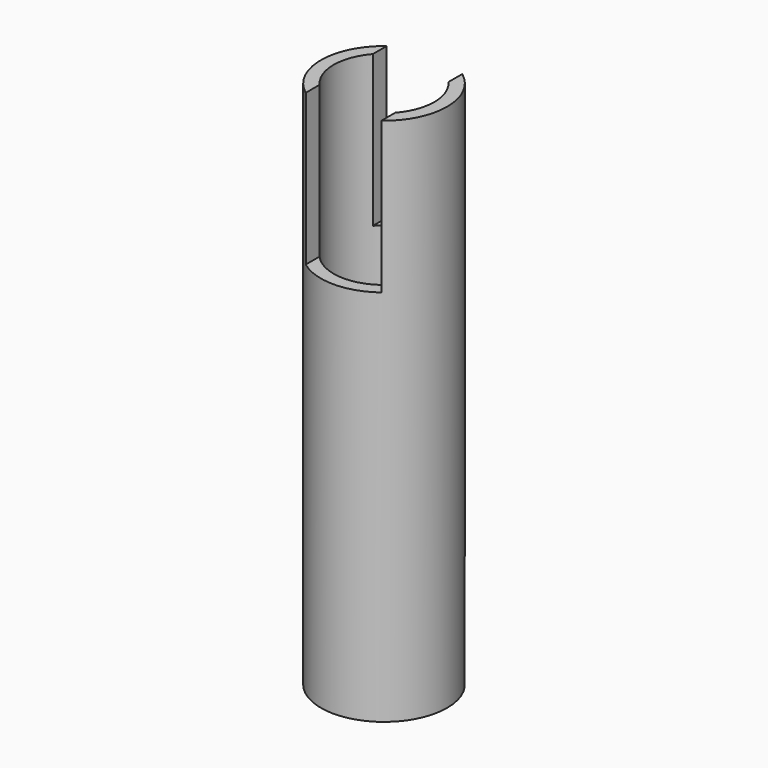
from build123d import *

# Parameters (mm, degrees)
SKETCH_R          = 16.7005
SKETCH_R_2        = 13.3223
PAD_DEPTH         = 140
SKETCH001_W       = 20
SKETCH001_H       = 40
POCKET_DEPTH      = 16.7015
POCKET_DEPTH_BACK = -16.7015


with BuildPart() as part:
    # Sketch → Pad (new body)
    with BuildSketch(Plane.XY):
        Circle(SKETCH_R)
        Circle(SKETCH_R_2, mode=Mode.SUBTRACT)
    extrude(amount=PAD_DEPTH)

    # Sketch001 → Pocket (cut, two sides)
    with BuildSketch(Plane(origin=(0, 0, 140), x_dir=(1, 0, 0), z_dir=(0, -1, 0))) as pocket_sk:
        with Locations((0, -20)):
            Rectangle(SKETCH001_W, SKETCH001_H)
    extrude(amount=-POCKET_DEPTH, mode=Mode.SUBTRACT)
    extrude(pocket_sk.sketch, amount=-POCKET_DEPTH_BACK, mode=Mode.SUBTRACT)


solid = part.part
